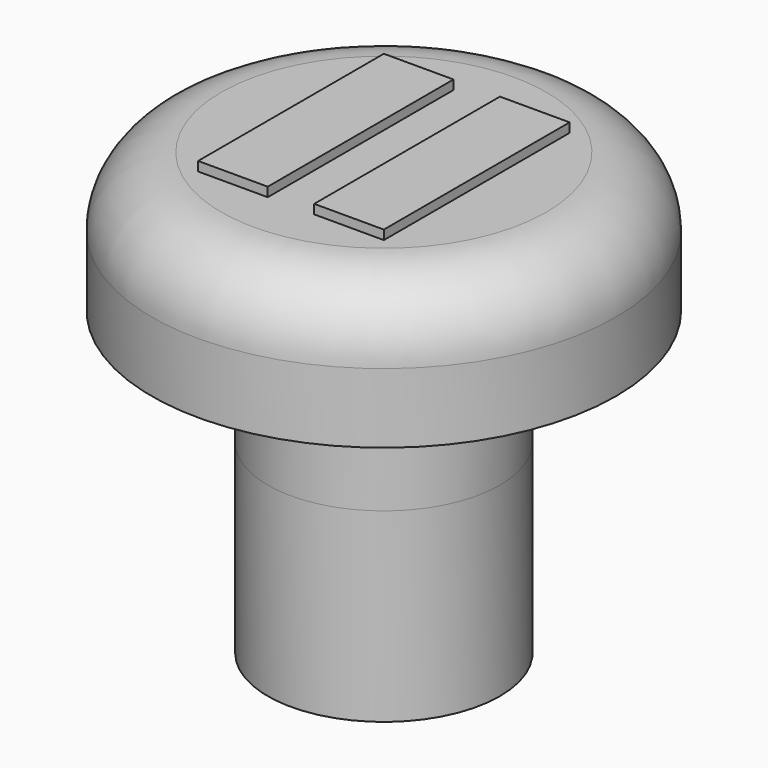
from build123d import *

# Parameters (mm, degrees)
SKETCH046_R     = 2.5
PAD023_DEPTH    = 2.5
SKETCH047_R     = 5
PAD024_DEPTH    = 3
FILLET003_R     = 1.5
SKETCH049_R     = 2.5
PAD025_DEPTH    = 4
SKETCH050_R     = 1.5
POCKET026_DEPTH = 4
SKETCH088_W     = 1.5
SKETCH088_H     = 5
PAD052_DEPTH    = 0.2


with BuildPart() as part:
    # Sketch046 → Pad023 (new body)
    with BuildSketch(Plane(origin=(0, 0, 30), x_dir=(1, 0, 0), z_dir=(0, 0, -1))):
        with Locations((101, 55)):
            Circle(SKETCH046_R)
    extrude(amount=-PAD023_DEPTH)

    # Sketch047 (on Face3 of Pad023) → Pad024 (join)
    with BuildSketch(Plane.XY.offset(32.5)):
        with Locations((101, -55)):
            Circle(SKETCH047_R)
    extrude(amount=PAD024_DEPTH)

    # Fillet003
    fillet003_edges = [part.edges().sort_by_distance(p)[0] for p in [
        (96, -55, 35.5),
    ]]
    fillet(fillet003_edges, radius=FILLET003_R)

    # Sketch049 → Pad025 (join)
    with BuildSketch(Plane(origin=(0, 0, 30), x_dir=(1, 0, 0), z_dir=(0, 0, -1))):
        with Locations((101, 55)):
            Circle(SKETCH049_R)
    extrude(amount=PAD025_DEPTH)

    # Sketch050 (on Face17 of Pad025) → Pocket026 (cut)
    with BuildSketch(Plane(origin=(0, 0, 26), x_dir=(1, 0, 0), z_dir=(0, 0, -1))):
        with Locations((101, 55)):
            Circle(SKETCH050_R)
    extrude(amount=-POCKET026_DEPTH, mode=Mode.SUBTRACT)


with BuildPart() as part_1:
    # Body002 placement: moved
    add(part.part.moved(Location((75, 0, 0))))

    # Sketch088 (on Face4 of Clone001) → Pad052 (new body)
    with BuildSketch(Plane(origin=(75, 0, 35.5), x_dir=(1, 0, 0), z_dir=(0, 0, 1))):
        with Locations((99.75, -55)):
            Rectangle(SKETCH088_W, SKETCH088_H)
        with Locations((102.25, -55)):
            Rectangle(SKETCH088_W, SKETCH088_H)
    extrude(amount=PAD052_DEPTH)


with BuildPart() as part_2:
    # Body010 placement: moved
    add(part_1.part.moved(Location((-145.5, 0, 0))))


solid = part_2.part
